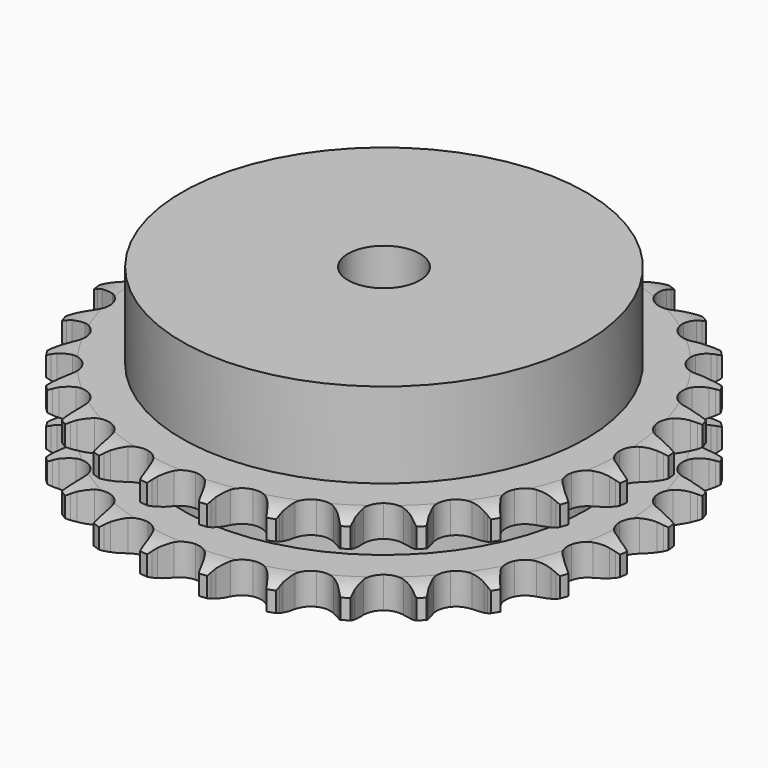
from build123d import *

# Parameters (mm, degrees)
PAD_DEPTH         = 21
SKETCH001_R       = 45
PAD001_DEPTH      = 40
SKETCH002_R       = 8
POCKET_DEPTH      = 0.001
POCKET_DEPTH_BACK = 40.001


with BuildPart() as part:
    # Sprocket → Pad (new body)
    with BuildSketch(Plane.XY):
        with BuildLine():
            ThreePointArc((-6.775463, 60.1339), (-5.959972, 59.077953), (-5.36144, 57.885557))
            Line((-5.36144, 57.885557), (-4.946783, 56.813337))
            ThreePointArc((-4.946783, 56.813337), (-4.287495, 55.408645), (-3.439129, 54.109378))
            ThreePointArc((-3.439129, 54.109378), (-1.92025, 52.850938), (0, 52.400042))
            ThreePointArc((0, 52.400042), (1.92025, 52.850938), (3.439129, 54.109378))
            ThreePointArc((3.439129, 54.109378), (4.287495, 55.408645), (4.946783, 56.813337))
            Line((4.946783, 56.813337), (5.36144, 57.885557))
            ThreePointArc((5.36144, 57.885557), (5.959972, 59.077953), (6.775463, 60.1339))
            ThreePointArc((6.775463, 60.1339), (7.335539, 58.922964), (7.653731, 57.627278))
            Line((7.653731, 57.627278), (7.8194, 56.489671))
            ThreePointArc((7.8194, 56.489671), (8.149585, 54.973492), (8.687567, 53.518021))
            ThreePointArc((8.687567, 53.518021), (9.888335, 51.95315), (11.660106, 51.086264))
            ThreePointArc((11.660106, 51.086264), (13.632545, 51.098559), (15.393372, 51.987465))
            Line((15.393372, 51.987465), (17.464914, 54.288146))
            ThreePointArc((17.464914, 54.288146), (17.774018, 54.77299), (18.107765, 55.241212))
            ThreePointArc((18.107765, 55.241212), (18.956624, 56.270527), (19.98664, 57.118535))
            ThreePointArc((19.98664, 57.118535), (20.263214, 55.813332), (20.285111, 54.479326))
            Line((20.285111, 54.479326), (20.193486, 53.333377))
            ThreePointArc((20.193486, 53.333377), (20.17801, 51.781739), (20.378632, 50.243047))
            ThreePointArc((20.378632, 50.243047), (21.201077, 48.450215), (22.735526, 47.210807))
            ThreePointArc((22.735526, 47.210807), (24.661248, 46.783884), (26.575727, 47.258683))
            Line((26.575727, 47.258683), (29.107281, 49.04072))
            ThreePointArc((29.107281, 49.04072), (29.516523, 49.444626), (29.946092, 49.826843))
            ThreePointArc((29.946092, 49.826843), (31.002712, 50.641462), (32.195603, 51.239009))
            ThreePointArc((32.195603, 51.239009), (32.174808, 49.904986), (31.899312, 48.599554))
            Line((31.899312, 48.599554), (31.554986, 47.502725))
            ThreePointArc((31.554986, 47.502725), (31.194626, 45.993433), (31.047827, 44.448677))
            ThreePointArc((31.047827, 44.448677), (31.450709, 42.517783), (32.670892, 40.968003))
            ThreePointArc((32.670892, 40.968003), (34.453332, 40.123271), (36.425465, 40.160154))
            Line((36.425465, 40.160154), (39.290087, 41.334187))
            ThreePointArc((39.290087, 41.334187), (39.778946, 41.636902), (40.282797, 41.913948))
            ThreePointArc((40.282797, 41.913948), (41.494195, 42.473022), (42.790144, 42.790144))
            ThreePointArc((42.790144, 42.790144), (42.473022, 41.494195), (41.913948, 40.282797))
            Line((41.913948, 40.282797), (41.334187, 39.290087))
            ThreePointArc((41.334187, 39.290087), (40.647014, 37.898824), (40.160154, 36.425465))
            ThreePointArc((40.160154, 36.425465), (40.123271, 34.453332), (40.968003, 32.670892))
            ThreePointArc((40.968003, 32.670892), (42.517783, 31.450709), (44.448677, 31.047827))
            Line((44.448677, 31.047827), (47.502725, 31.554986))
            ThreePointArc((47.502725, 31.554986), (48.046688, 31.741329), (48.599554, 31.899312))
            ThreePointArc((48.599554, 31.899312), (49.904986, 32.174808), (51.239009, 32.195603))
            ThreePointArc((51.239009, 32.195603), (50.641462, 31.002712), (49.826843, 29.946092))
            Line((49.826843, 29.946092), (49.04072, 29.107281))
            ThreePointArc((49.04072, 29.107281), (48.06119, 27.90381), (47.258683, 26.575727))
            ThreePointArc((47.258683, 26.575727), (46.783884, 24.661248), (47.210807, 22.735526))
            ThreePointArc((47.210807, 22.735526), (48.450215, 21.201077), (50.243047, 20.378632))
            Line((50.243047, 20.378632), (53.333377, 20.193486))
            ThreePointArc((53.333377, 20.193486), (53.905167, 20.254114), (54.479326, 20.285111))
            ThreePointArc((54.479326, 20.285111), (55.813332, 20.263214), (57.118535, 19.98664))
            ThreePointArc((57.118535, 19.98664), (56.270527, 18.956624), (55.241212, 18.107765))
            Line((55.241212, 18.107765), (54.288146, 17.464914))
            ThreePointArc((54.288146, 17.464914), (53.065377, 16.509582), (51.987465, 15.393372))
            ThreePointArc((51.987465, 15.393372), (51.098559, 13.632545), (51.086264, 11.660106))
            ThreePointArc((51.086264, 11.660106), (51.95315, 9.888335), (53.518021, 8.687567))
            Line((53.518021, 8.687567), (56.489671, 7.8194))
            ThreePointArc((56.489671, 7.8194), (57.060616, 7.751273), (57.627278, 7.653731))
            ThreePointArc((57.627278, 7.653731), (58.922964, 7.335539), (60.1339, 6.775463))
            ThreePointArc((60.1339, 6.775463), (59.077953, 5.959972), (57.885557, 5.36144))
            Line((57.885557, 5.36144), (56.813337, 4.946783))
            ThreePointArc((56.813337, 4.946783), (55.408645, 4.287495), (54.109378, 3.439129))
            ThreePointArc((54.109378, 3.439129), (52.850938, 1.92025), (52.400042, 0))
            ThreePointArc((52.400042, 0), (52.850938, -1.92025), (54.109378, -3.439129))
            Line((54.109378, -3.439129), (56.813337, -4.946783))
            ThreePointArc((56.813337, -4.946783), (57.354808, -5.140249), (57.885557, -5.36144))
            ThreePointArc((57.885557, -5.36144), (59.077953, -5.959972), (60.1339, -6.775463))
            ThreePointArc((60.1339, -6.775463), (58.922964, -7.335539), (57.627278, -7.653731))
            Line((57.627278, -7.653731), (56.489671, -7.8194))
            ThreePointArc((56.489671, -7.8194), (54.973492, -8.149585), (53.518021, -8.687567))
            ThreePointArc((53.518021, -8.687567), (51.95315, -9.888335), (51.086264, -11.660106))
            ThreePointArc((51.086264, -11.660106), (51.098559, -13.632545), (51.987465, -15.393372))
            Line((51.987465, -15.393372), (54.288146, -17.464914))
            ThreePointArc((54.288146, -17.464914), (54.77299, -17.774018), (55.241212, -18.107765))
            ThreePointArc((55.241212, -18.107765), (56.270527, -18.956624), (57.118535, -19.98664))
            ThreePointArc((57.118535, -19.98664), (55.813332, -20.263214), (54.479326, -20.285111))
            Line((54.479326, -20.285111), (53.333377, -20.193486))
            ThreePointArc((53.333377, -20.193486), (51.781739, -20.17801), (50.243047, -20.378632))
            ThreePointArc((50.243047, -20.378632), (48.450215, -21.201077), (47.210807, -22.735526))
            ThreePointArc((47.210807, -22.735526), (46.783884, -24.661248), (47.258683, -26.575727))
            Line((47.258683, -26.575727), (49.04072, -29.107281))
            ThreePointArc((49.04072, -29.107281), (49.444626, -29.516523), (49.826843, -29.946092))
            ThreePointArc((49.826843, -29.946092), (50.641462, -31.002712), (51.239009, -32.195603))
            ThreePointArc((51.239009, -32.195603), (49.904986, -32.174808), (48.599554, -31.899312))
            Line((48.599554, -31.899312), (47.502725, -31.554986))
            ThreePointArc((47.502725, -31.554986), (45.993433, -31.194626), (44.448677, -31.047827))
            ThreePointArc((44.448677, -31.047827), (42.517783, -31.450709), (40.968003, -32.670892))
            ThreePointArc((40.968003, -32.670892), (40.123271, -34.453332), (40.160154, -36.425465))
            Line((40.160154, -36.425465), (41.334187, -39.290087))
            ThreePointArc((41.334187, -39.290087), (41.636902, -39.778946), (41.913948, -40.282797))
            ThreePointArc((41.913948, -40.282797), (42.473022, -41.494195), (42.790144, -42.790144))
            ThreePointArc((42.790144, -42.790144), (41.494195, -42.473022), (40.282797, -41.913948))
            Line((40.282797, -41.913948), (39.290087, -41.334187))
            ThreePointArc((39.290087, -41.334187), (37.898824, -40.647014), (36.425465, -40.160154))
            ThreePointArc((36.425465, -40.160154), (34.453332, -40.123271), (32.670892, -40.968003))
            ThreePointArc((32.670892, -40.968003), (31.450709, -42.517783), (31.047827, -44.448677))
            Line((31.047827, -44.448677), (31.554986, -47.502725))
            ThreePointArc((31.554986, -47.502725), (31.741329, -48.046688), (31.899312, -48.599554))
            ThreePointArc((31.899312, -48.599554), (32.174808, -49.904986), (32.195603, -51.239009))
            ThreePointArc((32.195603, -51.239009), (31.002712, -50.641462), (29.946092, -49.826843))
            Line((29.946092, -49.826843), (29.107281, -49.04072))
            ThreePointArc((29.107281, -49.04072), (27.90381, -48.06119), (26.575727, -47.258683))
            ThreePointArc((26.575727, -47.258683), (24.661248, -46.783884), (22.735526, -47.210807))
            ThreePointArc((22.735526, -47.210807), (21.201077, -48.450215), (20.378632, -50.243047))
            Line((20.378632, -50.243047), (20.193486, -53.333377))
            ThreePointArc((20.193486, -53.333377), (20.254114, -53.905167), (20.285111, -54.479326))
            ThreePointArc((20.285111, -54.479326), (20.263214, -55.813332), (19.98664, -57.118535))
            ThreePointArc((19.98664, -57.118535), (18.956624, -56.270527), (18.107765, -55.241212))
            Line((18.107765, -55.241212), (17.464914, -54.288146))
            ThreePointArc((17.464914, -54.288146), (16.509582, -53.065377), (15.393372, -51.987465))
            ThreePointArc((15.393372, -51.987465), (13.632545, -51.098559), (11.660106, -51.086264))
            ThreePointArc((11.660106, -51.086264), (9.888335, -51.95315), (8.687567, -53.518021))
            Line((8.687567, -53.518021), (7.8194, -56.489671))
            ThreePointArc((7.8194, -56.489671), (7.751273, -57.060616), (7.653731, -57.627278))
            ThreePointArc((7.653731, -57.627278), (7.335539, -58.922964), (6.775463, -60.1339))
            ThreePointArc((6.775463, -60.1339), (5.959972, -59.077953), (5.36144, -57.885557))
            Line((5.36144, -57.885557), (4.946783, -56.813337))
            ThreePointArc((4.946783, -56.813337), (4.287495, -55.408645), (3.439129, -54.109378))
            ThreePointArc((3.439129, -54.109378), (1.92025, -52.850938), (0, -52.400042))
            ThreePointArc((0, -52.400042), (-1.92025, -52.850938), (-3.439129, -54.109378))
            Line((-3.439129, -54.109378), (-4.946783, -56.813337))
            ThreePointArc((-4.946783, -56.813337), (-5.140249, -57.354808), (-5.36144, -57.885557))
            ThreePointArc((-5.36144, -57.885557), (-5.959972, -59.077953), (-6.775463, -60.1339))
            ThreePointArc((-6.775463, -60.1339), (-7.335539, -58.922964), (-7.653731, -57.627278))
            Line((-7.653731, -57.627278), (-7.8194, -56.489671))
            ThreePointArc((-7.8194, -56.489671), (-8.149585, -54.973492), (-8.687567, -53.518021))
            ThreePointArc((-8.687567, -53.518021), (-9.888335, -51.95315), (-11.660106, -51.086264))
            ThreePointArc((-11.660106, -51.086264), (-13.632545, -51.098559), (-15.393372, -51.987465))
            Line((-15.393372, -51.987465), (-17.464914, -54.288146))
            ThreePointArc((-17.464914, -54.288146), (-17.774018, -54.77299), (-18.107765, -55.241212))
            ThreePointArc((-18.107765, -55.241212), (-18.956624, -56.270527), (-19.98664, -57.118535))
            ThreePointArc((-19.98664, -57.118535), (-20.263214, -55.813332), (-20.285111, -54.479326))
            Line((-20.285111, -54.479326), (-20.193486, -53.333377))
            ThreePointArc((-20.193486, -53.333377), (-20.17801, -51.781739), (-20.378632, -50.243047))
            ThreePointArc((-20.378632, -50.243047), (-21.201077, -48.450215), (-22.735526, -47.210807))
            ThreePointArc((-22.735526, -47.210807), (-24.661248, -46.783884), (-26.575727, -47.258683))
            Line((-26.575727, -47.258683), (-29.107281, -49.04072))
            ThreePointArc((-29.107281, -49.04072), (-29.516523, -49.444626), (-29.946092, -49.826843))
            ThreePointArc((-29.946092, -49.826843), (-31.002712, -50.641462), (-32.195603, -51.239009))
            ThreePointArc((-32.195603, -51.239009), (-32.174808, -49.904986), (-31.899312, -48.599554))
            Line((-31.899312, -48.599554), (-31.554986, -47.502725))
            ThreePointArc((-31.554986, -47.502725), (-31.194626, -45.993433), (-31.047827, -44.448677))
            ThreePointArc((-31.047827, -44.448677), (-31.450709, -42.517783), (-32.670892, -40.968003))
            ThreePointArc((-32.670892, -40.968003), (-34.453332, -40.123271), (-36.425465, -40.160154))
            Line((-36.425465, -40.160154), (-39.290087, -41.334187))
            ThreePointArc((-39.290087, -41.334187), (-39.778946, -41.636902), (-40.282797, -41.913948))
            ThreePointArc((-40.282797, -41.913948), (-41.494195, -42.473022), (-42.790144, -42.790144))
            ThreePointArc((-42.790144, -42.790144), (-42.473022, -41.494195), (-41.913948, -40.282797))
            Line((-41.913948, -40.282797), (-41.334187, -39.290087))
            ThreePointArc((-41.334187, -39.290087), (-40.647014, -37.898824), (-40.160154, -36.425465))
            ThreePointArc((-40.160154, -36.425465), (-40.123271, -34.453332), (-40.968003, -32.670892))
            ThreePointArc((-40.968003, -32.670892), (-42.517783, -31.450709), (-44.448677, -31.047827))
            Line((-44.448677, -31.047827), (-47.502725, -31.554986))
            ThreePointArc((-47.502725, -31.554986), (-48.046688, -31.741329), (-48.599554, -31.899312))
            ThreePointArc((-48.599554, -31.899312), (-49.904986, -32.174808), (-51.239009, -32.195603))
            ThreePointArc((-51.239009, -32.195603), (-50.641462, -31.002712), (-49.826843, -29.946092))
            Line((-49.826843, -29.946092), (-49.04072, -29.107281))
            ThreePointArc((-49.04072, -29.107281), (-48.06119, -27.90381), (-47.258683, -26.575727))
            ThreePointArc((-47.258683, -26.575727), (-46.783884, -24.661248), (-47.210807, -22.735526))
            ThreePointArc((-47.210807, -22.735526), (-48.450215, -21.201077), (-50.243047, -20.378632))
            Line((-50.243047, -20.378632), (-53.333377, -20.193486))
            ThreePointArc((-53.333377, -20.193486), (-53.905167, -20.254114), (-54.479326, -20.285111))
            ThreePointArc((-54.479326, -20.285111), (-55.813332, -20.263214), (-57.118535, -19.98664))
            ThreePointArc((-57.118535, -19.98664), (-56.270527, -18.956624), (-55.241212, -18.107765))
            Line((-55.241212, -18.107765), (-54.288146, -17.464914))
            ThreePointArc((-54.288146, -17.464914), (-53.065377, -16.509582), (-51.987465, -15.393372))
            ThreePointArc((-51.987465, -15.393372), (-51.098559, -13.632545), (-51.086264, -11.660106))
            ThreePointArc((-51.086264, -11.660106), (-51.95315, -9.888335), (-53.518021, -8.687567))
            Line((-53.518021, -8.687567), (-56.489671, -7.8194))
            ThreePointArc((-56.489671, -7.8194), (-57.060616, -7.751273), (-57.627278, -7.653731))
            ThreePointArc((-57.627278, -7.653731), (-58.922964, -7.335539), (-60.1339, -6.775463))
            ThreePointArc((-60.1339, -6.775463), (-59.077953, -5.959972), (-57.885557, -5.36144))
            Line((-57.885557, -5.36144), (-56.813337, -4.946783))
            ThreePointArc((-56.813337, -4.946783), (-55.408645, -4.287495), (-54.109378, -3.439129))
            ThreePointArc((-54.109378, -3.439129), (-52.850938, -1.92025), (-52.400042, 0))
            ThreePointArc((-52.400042, 0), (-52.850938, 1.92025), (-54.109378, 3.439129))
            Line((-54.109378, 3.439129), (-56.813337, 4.946783))
            ThreePointArc((-56.813337, 4.946783), (-57.354808, 5.140249), (-57.885557, 5.36144))
            ThreePointArc((-57.885557, 5.36144), (-59.077953, 5.959972), (-60.1339, 6.775463))
            ThreePointArc((-60.1339, 6.775463), (-58.922964, 7.335539), (-57.627278, 7.653731))
            Line((-57.627278, 7.653731), (-56.489671, 7.8194))
            ThreePointArc((-56.489671, 7.8194), (-54.973492, 8.149585), (-53.518021, 8.687567))
            ThreePointArc((-53.518021, 8.687567), (-51.95315, 9.888335), (-51.086264, 11.660106))
            ThreePointArc((-51.086264, 11.660106), (-51.098559, 13.632545), (-51.987465, 15.393372))
            Line((-51.987465, 15.393372), (-54.288146, 17.464914))
            ThreePointArc((-54.288146, 17.464914), (-54.77299, 17.774018), (-55.241212, 18.107765))
            ThreePointArc((-55.241212, 18.107765), (-56.270527, 18.956624), (-57.118535, 19.98664))
            ThreePointArc((-57.118535, 19.98664), (-55.813332, 20.263214), (-54.479326, 20.285111))
            Line((-54.479326, 20.285111), (-53.333377, 20.193486))
            ThreePointArc((-53.333377, 20.193486), (-51.781739, 20.17801), (-50.243047, 20.378632))
            ThreePointArc((-50.243047, 20.378632), (-48.450215, 21.201077), (-47.210807, 22.735526))
            ThreePointArc((-47.210807, 22.735526), (-46.783884, 24.661248), (-47.258683, 26.575727))
            Line((-47.258683, 26.575727), (-49.04072, 29.107281))
            ThreePointArc((-49.04072, 29.107281), (-49.444626, 29.516523), (-49.826843, 29.946092))
            ThreePointArc((-49.826843, 29.946092), (-50.641462, 31.002712), (-51.239009, 32.195603))
            ThreePointArc((-51.239009, 32.195603), (-49.904986, 32.174808), (-48.599554, 31.899312))
            Line((-48.599554, 31.899312), (-47.502725, 31.554986))
            ThreePointArc((-47.502725, 31.554986), (-45.993433, 31.194626), (-44.448677, 31.047827))
            ThreePointArc((-44.448677, 31.047827), (-42.517783, 31.450709), (-40.968003, 32.670892))
            ThreePointArc((-40.968003, 32.670892), (-40.123271, 34.453332), (-40.160154, 36.425465))
            Line((-40.160154, 36.425465), (-41.334187, 39.290087))
            ThreePointArc((-41.334187, 39.290087), (-41.636902, 39.778946), (-41.913948, 40.282797))
            ThreePointArc((-41.913948, 40.282797), (-42.473022, 41.494195), (-42.790144, 42.790144))
            ThreePointArc((-42.790144, 42.790144), (-41.494195, 42.473022), (-40.282797, 41.913948))
            Line((-40.282797, 41.913948), (-39.290087, 41.334187))
            ThreePointArc((-39.290087, 41.334187), (-37.898824, 40.647014), (-36.425465, 40.160154))
            ThreePointArc((-36.425465, 40.160154), (-34.453332, 40.123271), (-32.670892, 40.968003))
            ThreePointArc((-32.670892, 40.968003), (-31.450709, 42.517783), (-31.047827, 44.448677))
            Line((-31.047827, 44.448677), (-31.554986, 47.502725))
            ThreePointArc((-31.554986, 47.502725), (-31.741329, 48.046688), (-31.899312, 48.599554))
            ThreePointArc((-31.899312, 48.599554), (-32.174808, 49.904986), (-32.195603, 51.239009))
            ThreePointArc((-32.195603, 51.239009), (-31.002712, 50.641462), (-29.946092, 49.826843))
            Line((-29.946092, 49.826843), (-29.107281, 49.04072))
            ThreePointArc((-29.107281, 49.04072), (-27.90381, 48.06119), (-26.575727, 47.258683))
            ThreePointArc((-26.575727, 47.258683), (-24.661248, 46.783884), (-22.735526, 47.210807))
            ThreePointArc((-22.735526, 47.210807), (-21.201077, 48.450215), (-20.378632, 50.243047))
            Line((-20.378632, 50.243047), (-20.193486, 53.333377))
            ThreePointArc((-20.193486, 53.333377), (-20.254114, 53.905167), (-20.285111, 54.479326))
            ThreePointArc((-20.285111, 54.479326), (-20.263214, 55.813332), (-19.98664, 57.118535))
            ThreePointArc((-19.98664, 57.118535), (-18.956624, 56.270527), (-18.107765, 55.241212))
            Line((-18.107765, 55.241212), (-17.464914, 54.288146))
            ThreePointArc((-17.464914, 54.288146), (-16.509582, 53.065377), (-15.393372, 51.987465))
            ThreePointArc((-15.393372, 51.987465), (-13.632545, 51.098559), (-11.660106, 51.086264))
            ThreePointArc((-11.660106, 51.086264), (-9.888335, 51.95315), (-8.687567, 53.518021))
            Line((-8.687567, 53.518021), (-7.8194, 56.489671))
            ThreePointArc((-7.8194, 56.489671), (-7.751273, 57.060616), (-7.653731, 57.627278))
            ThreePointArc((-7.653731, 57.627278), (-7.335539, 58.922964), (-6.775463, 60.1339))
        make_face()
    extrude(amount=PAD_DEPTH)

    # Sketch → Groove (revolve, cut)
    with BuildSketch(Plane.XZ):
        with BuildLine():
            ThreePointArc((53.333431, 0), (56.24032, 0.329167), (59, 1.3))
            Line((59, 1.3), (59, 5.7))
            ThreePointArc((59, 5.7), (56.24032, 6.670833), (53.333431, 7))
            Line((45, 7), (53.333431, 7))
            Line((45, 14), (45, 7))
            Line((53.333431, 14), (45, 14))
            ThreePointArc((53.333431, 14), (56.24032, 14.329167), (59, 15.3))
            Line((59, 15.3), (59, 19.7))
            ThreePointArc((59, 19.7), (56.24032, 20.670833), (53.333431, 21))
            Line((53.333431, 21), (63.333431, 21))
            Line((63.333431, 21), (63.333431, 0))
            Line((53.333431, 0), (63.333431, 0))
        make_face()
    revolve(axis=Axis((0, 0, 0), (0, 0, 1)), mode=Mode.SUBTRACT)

    # Sketch001 → Pad001 (join)
    with BuildSketch(Plane.XY):
        Circle(SKETCH001_R)
    extrude(amount=PAD001_DEPTH)

    # Sketch002 → Pocket (cut, two sides)
    with BuildSketch(Plane.XY) as pocket_sk:
        Circle(SKETCH002_R)
    extrude(amount=-POCKET_DEPTH, mode=Mode.SUBTRACT)
    extrude(pocket_sk.sketch, amount=POCKET_DEPTH_BACK, mode=Mode.SUBTRACT)


solid = part.part
